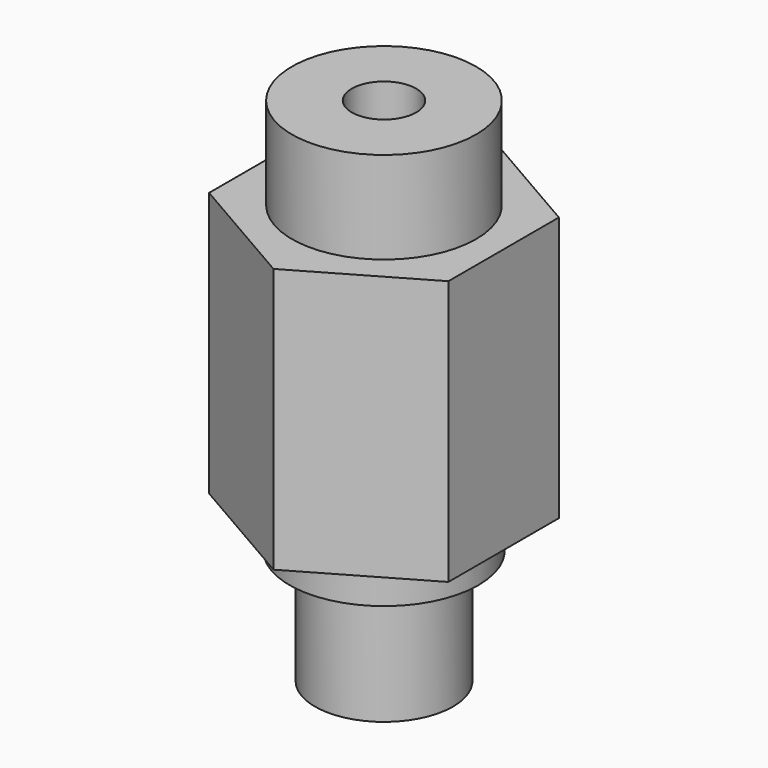
from build123d import *

# Parameters (mm, degrees)
F0_R     = 4.1
F0_R_2   = 1.4
F1_DEPTH = 1.7
F2_R     = 3
F2_R_2   = 1.4
F3_DEPTH = 5
F4_DEPTH = 11.5
F5_R     = 4
F5_R_2   = 1.4
F6_DEPTH = 4


with BuildPart() as f1:
    # F0 (on Top) → F1 (new body)
    with BuildSketch(Plane.XY):
        Circle(F0_R)
        Circle(F0_R_2, mode=Mode.SUBTRACT)
    extrude(amount=-F1_DEPTH)

    # F2 (on face) → F3 (join)
    with BuildSketch(Plane(origin=(0, 0, -1.7), x_dir=(1, 0, 0), z_dir=(0, 0, -1))):
        Circle(F2_R)
        Circle(F2_R_2, mode=Mode.SUBTRACT)
    extrude(amount=F3_DEPTH)

    # F0 (on Top) → F4 (join)
    with BuildSketch(Plane.XY):
        Polygon((5.1961524227, -3), (5.1961524227, 3), (0, 6), (-5.1961524227, 3), (-5.1961524227, -3), (0, -6), align=None)
        Circle(F0_R, mode=Mode.SUBTRACT)
        Circle(F0_R)
        Circle(F0_R_2, mode=Mode.SUBTRACT)
    extrude(amount=F4_DEPTH)

    # F5 (on face) → F6 (join)
    with BuildSketch(Plane.XY.offset(11.5)):
        Circle(F5_R)
        Circle(F5_R_2, mode=Mode.SUBTRACT)
    extrude(amount=F6_DEPTH)


solid = f1.part
